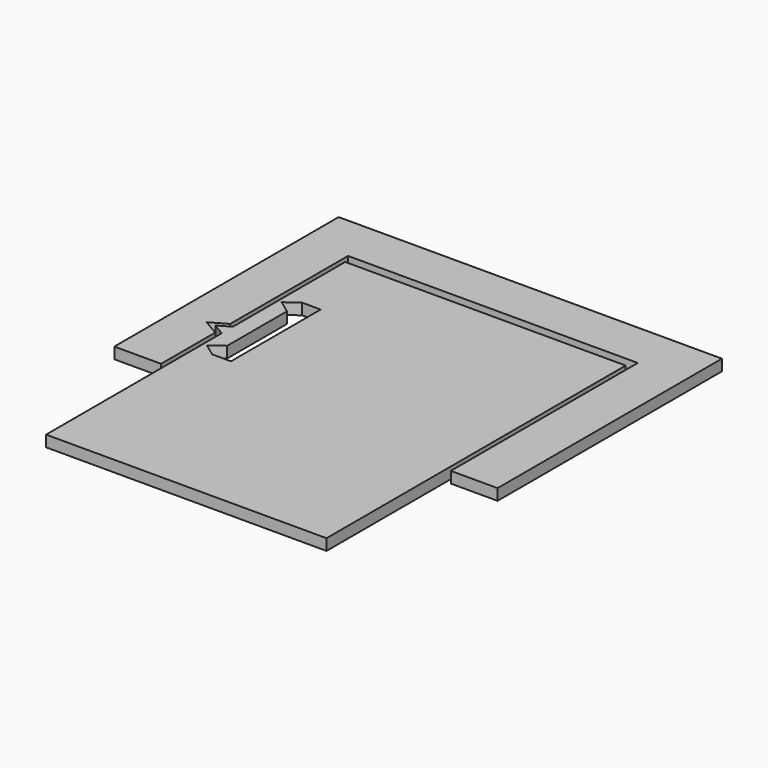
from build123d import *

# Parameters (mm, degrees)
F0_W     = 5
F0_H     = 25
F1_DEPTH = 1.2


with BuildPart() as f1:
    # F0 (on Top) → F1 (new body)
    with BuildSketch(Plane.XY):
        Polygon((15, -20), (15, 20), (-15, 20), (-15, 5), (-16.299038, 4.25), (-15, 3.5), (-15, -20), align=None)
        Polygon((-14.6, 11), (-13.225227, 12), (-11.225227, 12), (-11.225227, 0), (-13.225227, 0), (-14.6, 1), (-13.225227, 2), (-13.225227, 10), align=None, mode=Mode.SUBTRACT)
        Polygon((-20.5, -4), (-15.5, -4), (-15.5, 3.25), (-17.232051, 4.25), (-15.5, 5.25), (-15.5, 21), (-15.5, 26), (-20.5, 26), align=None)
        Polygon((20.5, 26), (-15.5, 26), (-15.5, 21), (15.5, 21), (20.5, 21), align=None)
        with Locations((18, 8.5)):
            Rectangle(F0_W, F0_H)
    extrude(amount=F1_DEPTH)


solid = f1.part
